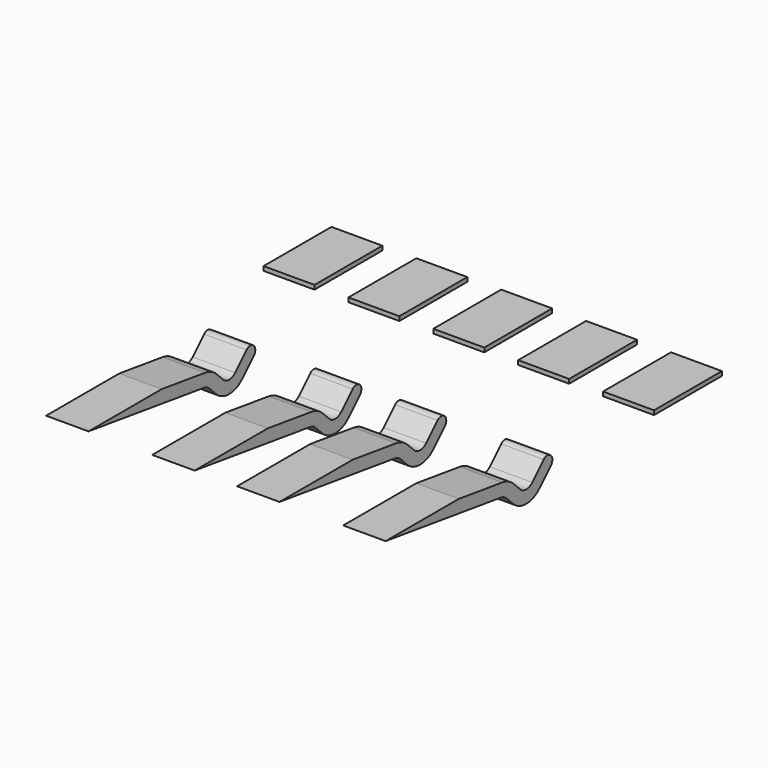
from build123d import *

# Parameters (mm, degrees)
EXTRUDE010_DEPTH = 1
BOX053_W         = 1.2
BOX053_H         = 2
BOX053_DEPTH     = 0.1
ARRAY015_X_COUNT = 5
ARRAY015_X_PITCH = 2


with BuildPart() as extrude015:
    # Sketch027 → Extrude010 (new body)
    with BuildSketch(Plane.YZ):
        with BuildLine():
            Line((1.279699, -0.17985), (0, 0))
            Line((0, 0), (-2.155589, 0))
            Line((-2.155589, 0), (1.237947, -0.47693))
            ThreePointArc((1.408328, -0.561879), (1.330055, -0.505531), (1.237947, -0.47693))
            Line((1.408328, -0.561879), (1.596448, -0.749999))
            ThreePointArc((1.596448, -0.749999), (1.985356, -0.91109), (2.374264, -0.75))
            Line((2.374264, -0.75), (2.712132, -0.412132))
            ThreePointArc((2.712132, -0.412132), (2.712132, -0.2), (2.5, -0.2))
            Line((2.162133, -0.537867), (2.5, -0.2))
            ThreePointArc((1.80858, -0.537867), (1.985356, -0.61109), (2.162133, -0.537867))
            Line((1.62046, -0.349747), (1.80858, -0.537867))
            ThreePointArc((1.62046, -0.349747), (1.463914, -0.23705), (1.279699, -0.17985))
        make_face()
    extrude(amount=EXTRUDE010_DEPTH)


with BuildPart() as extrude015_1:
    # Extrude010 placement: moved
    add(extrude015.part.moved(Location((-4, 0, 0))))


with BuildPart() as extrude010:
    # Clone021 base: copy of Extrude015
    add(extrude015_1.part)


with BuildPart() as extrude010_1:
    # Clone021 placement: moved
    add(extrude010.part.moved(Location((2.5, 0, 0))))


with BuildPart() as extrude011:
    # Clone022 base: copy of Extrude015
    add(extrude015_1.part)


with BuildPart() as extrude011_1:
    # Clone022 placement: moved
    add(extrude011.part.moved(Location((4.5, 0, 0))))


with BuildPart() as extrude012:
    # Clone023 base: copy of Extrude015
    add(extrude015_1.part)


with BuildPart() as extrude012_1:
    # Clone023 placement: moved
    add(extrude012.part.moved(Location((7, 0, 0))))


with BuildPart() as fusion040:
    # Fusion040 base: copy of Extrude015
    add(extrude015_1.part)

    # Fusion040: union Extrude010, Extrude011, Extrude012
    add(extrude010_1.part)
    add(extrude011_1.part)
    add(extrude012_1.part)


with BuildPart() as fusion040_1:
    # Fusion040 placement: moved
    add(fusion040.part.moved(Location((0, 10, 12.6))))


with BuildPart() as fusion041:
    # Box053 → Box053 (new body)
    with BuildSketch(Plane(origin=(-4.6, 15, 12.5), x_dir=(1, 0, 0), z_dir=(0, 0, 1))):
        with Locations((0.6, 1)):
            Rectangle(BOX053_W, BOX053_H)
    extrude(amount=BOX053_DEPTH)

    # Array015 X: Fusion041 ×5


with BuildPart() as fusion041_1:
    add(fusion041.part)
    with Locations(*[(i * ARRAY015_X_PITCH, 0, 0) for i in range(1, ARRAY015_X_COUNT)]):
        add(fusion041.part)

    # Fusion041: union Fusion040
    add(fusion040_1.part)


solid = fusion041_1.part
